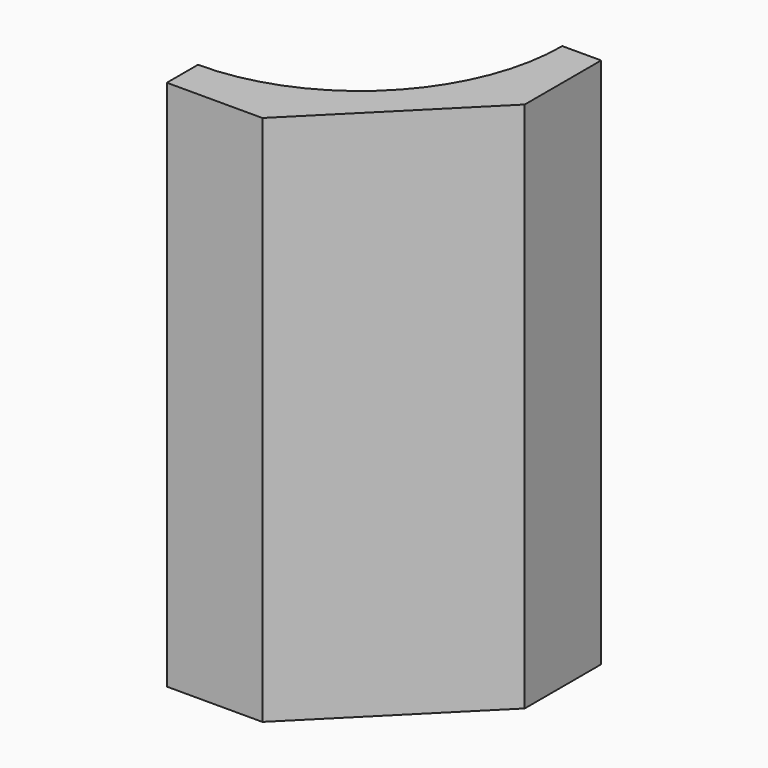
from build123d import *

# Parameters (mm, degrees)
F1_DEPTH = 116


with BuildPart() as f1:
    # F0 (on Top) → F1 (new body)
    with BuildSketch(Plane.XY):
        with BuildLine():
            Line((0, 8.472223), (0, 0))
            Line((0, 0), (20.833336, 0))
            Line((20.833336, 0), (52.638892, 31.805556))
            Line((52.638892, 31.805556), (52.638892, 52.638892))
            Line((52.638892, 52.638892), (44.166669, 52.638892))
            ThreePointArc((44.166669, 52.638892), (31.230551, 21.408341), (0, 8.472223))
        make_face()
    extrude(amount=F1_DEPTH)


solid = f1.part
